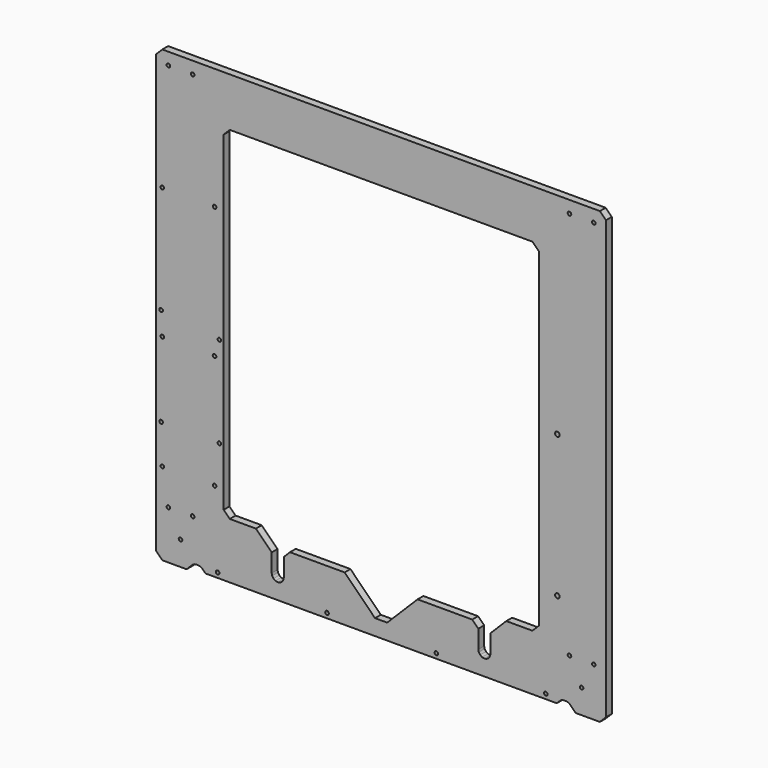
from build123d import *

# Parameters (mm, degrees)
F1_DEPTH = 6


with BuildPart() as f1:
    # F0 (on Front) → F1 (new body)
    with BuildSketch(Plane.XZ):
        Polygon((185, 180), (180, 185), (-180, 185), (-185, 180), (-185, -180), (-180, -185), (-160, -185), (-155.171573, -180.171573), (-153.873879, -179.304482), (-152.343146, -179), (-150.156854, -179), (-148.626121, -179.304482), (-147.328427, -180.171573), (-144.5, -183), (144.5, -183), (147.328427, -180.171573), (148.626121, -179.304482), (150.156854, -179), (152.343146, -179), (153.873879, -179.304482), (155.171573, -180.171573), (160, -185), (180, -185), (185, -180), align=None)
        Polygon((-163.614181, -164.425975), (-163.5, -165), (-163.614181, -165.574025), (-163.93934, -166.06066), (-164.425975, -166.385819), (-165, -166.5), (-165.574025, -166.385819), (-166.06066, -166.06066), (-166.385819, -165.574025), (-166.5, -165), (-166.385819, -164.425975), (-166.06066, -163.93934), (-165.574025, -163.614181), (-165, -163.5), (-164.425975, -163.614181), (-163.93934, -163.93934), align=None, mode=Mode.SUBTRACT)
        Polygon((-173.614181, -144.425975), (-173.5, -145), (-173.614181, -145.574025), (-173.93934, -146.06066), (-174.425975, -146.385819), (-175, -146.5), (-175.574025, -146.385819), (-176.06066, -146.06066), (-176.385819, -145.574025), (-176.5, -145), (-176.385819, -144.425975), (-176.06066, -143.93934), (-175.574025, -143.614181), (-175, -143.5), (-174.425975, -143.614181), (-173.93934, -143.93934), align=None, mode=Mode.SUBTRACT)
        Polygon((-153.614181, -144.425975), (-153.5, -145), (-153.614181, -145.574025), (-153.93934, -146.06066), (-154.425975, -146.385819), (-155, -146.5), (-155.574025, -146.385819), (-156.06066, -146.06066), (-156.385819, -145.574025), (-156.5, -145), (-156.385819, -144.425975), (-156.06066, -143.93934), (-155.574025, -143.614181), (-155, -143.5), (-154.425975, -143.614181), (-153.93934, -143.93934), align=None, mode=Mode.SUBTRACT)
        Polygon((-133.114181, -178.425975), (-133, -179), (-133.114181, -179.574025), (-133.43934, -180.06066), (-133.925975, -180.385819), (-134.5, -180.5), (-135.074025, -180.385819), (-135.56066, -180.06066), (-135.885819, -179.574025), (-136, -179), (-135.885819, -178.425975), (-135.56066, -177.93934), (-135.074025, -177.614181), (-134.5, -177.5), (-133.925975, -177.614181), (-133.43934, -177.93934), align=None, mode=Mode.SUBTRACT)
        Polygon((-178.614181, -116.425975), (-178.5, -117), (-178.614181, -117.574025), (-178.93934, -118.06066), (-179.425975, -118.385819), (-180, -118.5), (-180.574025, -118.385819), (-181.06066, -118.06066), (-181.385819, -117.574025), (-181.5, -117), (-181.385819, -116.425975), (-181.06066, -115.93934), (-180.574025, -115.614181), (-180, -115.5), (-179.425975, -115.614181), (-178.93934, -115.93934), align=None, mode=Mode.SUBTRACT)
        Polygon((-135.614181, -116.425975), (-135.5, -117), (-135.614181, -117.574025), (-135.93934, -118.06066), (-136.425975, -118.385819), (-137, -118.5), (-137.574025, -118.385819), (-138.06066, -118.06066), (-138.385819, -117.574025), (-138.5, -117), (-138.385819, -116.425975), (-138.06066, -115.93934), (-137.574025, -115.614181), (-137, -115.5), (-136.425975, -115.614181), (-135.93934, -115.93934), align=None, mode=Mode.SUBTRACT)
        Polygon((-43.114181, -178.425975), (-43, -179), (-43.114181, -179.574025), (-43.43934, -180.06066), (-43.925975, -180.385819), (-44.5, -180.5), (-45.074025, -180.385819), (-45.56066, -180.06066), (-45.885819, -179.574025), (-46, -179), (-45.885819, -178.425975), (-45.56066, -177.93934), (-45.074025, -177.614181), (-44.5, -177.5), (-43.925975, -177.614181), (-43.43934, -177.93934), align=None, mode=Mode.SUBTRACT)
        Polygon((-179.614181, -84.425975), (-179.5, -85), (-179.614181, -85.574025), (-179.93934, -86.06066), (-180.425975, -86.385819), (-181, -86.5), (-181.574025, -86.385819), (-182.06066, -86.06066), (-182.385819, -85.574025), (-182.5, -85), (-182.385819, -84.425975), (-182.06066, -83.93934), (-181.574025, -83.614181), (-181, -83.5), (-180.425975, -83.614181), (-179.93934, -83.93934), align=None, mode=Mode.SUBTRACT)
        Polygon((-131.614181, -84.425975), (-131.5, -85), (-131.614181, -85.574025), (-131.93934, -86.06066), (-132.425975, -86.385819), (-133, -86.5), (-133.574025, -86.385819), (-134.06066, -86.06066), (-134.385819, -85.574025), (-134.5, -85), (-134.385819, -84.425975), (-134.06066, -83.93934), (-133.574025, -83.614181), (-133, -83.5), (-132.425975, -83.614181), (-131.93934, -83.93934), align=None, mode=Mode.SUBTRACT)
        Polygon((-178.614181, -22.425975), (-178.5, -23), (-178.614181, -23.574025), (-178.93934, -24.06066), (-179.425975, -24.385819), (-180, -24.5), (-180.574025, -24.385819), (-181.06066, -24.06066), (-181.385819, -23.574025), (-181.5, -23), (-181.385819, -22.425975), (-181.06066, -21.93934), (-180.574025, -21.614181), (-180, -21.5), (-179.425975, -21.614181), (-178.93934, -21.93934), align=None, mode=Mode.SUBTRACT)
        Polygon((-179.614181, -3.425975), (-179.5, -4), (-179.614181, -4.574025), (-179.93934, -5.06066), (-180.425975, -5.385819), (-181, -5.5), (-181.574025, -5.385819), (-182.06066, -5.06066), (-182.385819, -4.574025), (-182.5, -4), (-182.385819, -3.425975), (-182.06066, -2.93934), (-181.574025, -2.614181), (-181, -2.5), (-180.425975, -2.614181), (-179.93934, -2.93934), align=None, mode=Mode.SUBTRACT)
        Polygon((-135.614181, -22.425975), (-135.5, -23), (-135.614181, -23.574025), (-135.93934, -24.06066), (-136.425975, -24.385819), (-137, -24.5), (-137.574025, -24.385819), (-138.06066, -24.06066), (-138.385819, -23.574025), (-138.5, -23), (-138.385819, -22.425975), (-138.06066, -21.93934), (-137.574025, -21.614181), (-137, -21.5), (-136.425975, -21.614181), (-135.93934, -21.93934), align=None, mode=Mode.SUBTRACT)
        Polygon((-131.614181, -9.425975), (-131.5, -10), (-131.614181, -10.574025), (-131.93934, -11.06066), (-132.425975, -11.385819), (-133, -11.5), (-133.574025, -11.385819), (-134.06066, -11.06066), (-134.385819, -10.574025), (-134.5, -10), (-134.385819, -9.425975), (-134.06066, -8.93934), (-133.574025, -8.614181), (-133, -8.5), (-132.425975, -8.614181), (-131.93934, -8.93934), align=None, mode=Mode.SUBTRACT)
        Polygon((46.885819, -178.425975), (47, -179), (46.885819, -179.574025), (46.56066, -180.06066), (46.074025, -180.385819), (45.5, -180.5), (44.925975, -180.385819), (44.43934, -180.06066), (44.114181, -179.574025), (44, -179), (44.114181, -178.425975), (44.43934, -177.93934), (44.925975, -177.614181), (45.5, -177.5), (46.074025, -177.614181), (46.56066, -177.93934), align=None, mode=Mode.SUBTRACT)
        Polygon((136.885819, -178.425975), (137, -179), (136.885819, -179.574025), (136.56066, -180.06066), (136.074025, -180.385819), (135.5, -180.5), (134.925975, -180.385819), (134.43934, -180.06066), (134.114181, -179.574025), (134, -179), (134.114181, -178.425975), (134.43934, -177.93934), (134.925975, -177.614181), (135.5, -177.5), (136.074025, -177.614181), (136.56066, -177.93934), align=None, mode=Mode.SUBTRACT)
        Polygon((166.385819, -164.425975), (166.5, -165), (166.385819, -165.574025), (166.06066, -166.06066), (165.574025, -166.385819), (165, -166.5), (164.425975, -166.385819), (163.93934, -166.06066), (163.614181, -165.574025), (163.5, -165), (163.614181, -164.425975), (163.93934, -163.93934), (164.425975, -163.614181), (165, -163.5), (165.574025, -163.614181), (166.06066, -163.93934), align=None, mode=Mode.SUBTRACT)
        Polygon((156.385819, -144.425975), (156.5, -145), (156.385819, -145.574025), (156.06066, -146.06066), (155.574025, -146.385819), (155, -146.5), (154.425975, -146.385819), (153.93934, -146.06066), (153.614181, -145.574025), (153.5, -145), (153.614181, -144.425975), (153.93934, -143.93934), (154.425975, -143.614181), (155, -143.5), (155.574025, -143.614181), (156.06066, -143.93934), align=None, mode=Mode.SUBTRACT)
        Polygon((176.385819, -144.425975), (176.5, -145), (176.385819, -145.574025), (176.06066, -146.06066), (175.574025, -146.385819), (175, -146.5), (174.425975, -146.385819), (173.93934, -146.06066), (173.614181, -145.574025), (173.5, -145), (173.614181, -144.425975), (173.93934, -143.93934), (174.425975, -143.614181), (175, -143.5), (175.574025, -143.614181), (176.06066, -143.93934), align=None, mode=Mode.SUBTRACT)
        Polygon((146.755371, -104.272901), (146.9, -105), (146.755371, -105.727099), (146.343503, -106.343503), (145.727099, -106.755371), (145, -106.9), (144.272901, -106.755371), (143.656497, -106.343503), (143.244629, -105.727099), (143.1, -105), (143.244629, -104.272901), (143.656497, -103.656497), (144.272901, -103.244629), (145, -103.1), (145.727099, -103.244629), (146.343503, -103.656497), align=None, mode=Mode.SUBTRACT)
        Polygon((130, 139.3), (130, -131.5), (124.5, -137), (103, -137), (90, -150), (90, -165), (89.619398, -166.913417), (88.535534, -168.535534), (86.913417, -169.619398), (85, -170), (83.086583, -169.619398), (81.464466, -168.535534), (80.380602, -166.913417), (80, -165), (80, -150), (75, -145), (30, -145), (5, -170), (-5, -170), (-30, -145), (-75, -145), (-80, -150), (-80, -165), (-80.380602, -166.913417), (-81.464466, -168.535534), (-83.086583, -169.619398), (-85, -170), (-86.913417, -169.619398), (-88.535534, -168.535534), (-89.619398, -166.913417), (-90, -165), (-90, -150), (-103, -137), (-124.5, -137), (-129.5, -132), (-129.5, 139.8), (-124.5, 144.8), (124.5, 144.8), align=None, mode=Mode.SUBTRACT)
        Polygon((-178.614181, 85.574025), (-178.5, 85), (-178.614181, 84.425975), (-178.93934, 83.93934), (-179.425975, 83.614181), (-180, 83.5), (-180.574025, 83.614181), (-181.06066, 83.93934), (-181.385819, 84.425975), (-181.5, 85), (-181.385819, 85.574025), (-181.06066, 86.06066), (-180.574025, 86.385819), (-180, 86.5), (-179.425975, 86.385819), (-178.93934, 86.06066), align=None, mode=Mode.SUBTRACT)
        Polygon((-135.614181, 85.574025), (-135.5, 85), (-135.614181, 84.425975), (-135.93934, 83.93934), (-136.425975, 83.614181), (-137, 83.5), (-137.574025, 83.614181), (-138.06066, 83.93934), (-138.385819, 84.425975), (-138.5, 85), (-138.385819, 85.574025), (-138.06066, 86.06066), (-137.574025, 86.385819), (-137, 86.5), (-136.425975, 86.385819), (-135.93934, 86.06066), align=None, mode=Mode.SUBTRACT)
        Polygon((-173.614181, 175.574025), (-173.5, 175), (-173.614181, 174.425975), (-173.93934, 173.93934), (-174.425975, 173.614181), (-175, 173.5), (-175.574025, 173.614181), (-176.06066, 173.93934), (-176.385819, 174.425975), (-176.5, 175), (-176.385819, 175.574025), (-176.06066, 176.06066), (-175.574025, 176.385819), (-175, 176.5), (-174.425975, 176.385819), (-173.93934, 176.06066), align=None, mode=Mode.SUBTRACT)
        Polygon((-153.614181, 175.574025), (-153.5, 175), (-153.614181, 174.425975), (-153.93934, 173.93934), (-154.425975, 173.614181), (-155, 173.5), (-155.574025, 173.614181), (-156.06066, 173.93934), (-156.385819, 174.425975), (-156.5, 175), (-156.385819, 175.574025), (-156.06066, 176.06066), (-155.574025, 176.385819), (-155, 176.5), (-154.425975, 176.385819), (-153.93934, 176.06066), align=None, mode=Mode.SUBTRACT)
        Polygon((146.755371, 12.727099), (146.9, 12), (146.755371, 11.272901), (146.343503, 10.656497), (145.727099, 10.244629), (145, 10.1), (144.272901, 10.244629), (143.656497, 10.656497), (143.244629, 11.272901), (143.1, 12), (143.244629, 12.727099), (143.656497, 13.343503), (144.272901, 13.755371), (145, 13.9), (145.727099, 13.755371), (146.343503, 13.343503), align=None, mode=Mode.SUBTRACT)
        Polygon((156.385819, 175.574025), (156.5, 175), (156.385819, 174.425975), (156.06066, 173.93934), (155.574025, 173.614181), (155, 173.5), (154.425975, 173.614181), (153.93934, 173.93934), (153.614181, 174.425975), (153.5, 175), (153.614181, 175.574025), (153.93934, 176.06066), (154.425975, 176.385819), (155, 176.5), (155.574025, 176.385819), (156.06066, 176.06066), align=None, mode=Mode.SUBTRACT)
        Polygon((176.385819, 175.574025), (176.5, 175), (176.385819, 174.425975), (176.06066, 173.93934), (175.574025, 173.614181), (175, 173.5), (174.425975, 173.614181), (173.93934, 173.93934), (173.614181, 174.425975), (173.5, 175), (173.614181, 175.574025), (173.93934, 176.06066), (174.425975, 176.385819), (175, 176.5), (175.574025, 176.385819), (176.06066, 176.06066), align=None, mode=Mode.SUBTRACT)
    extrude(amount=F1_DEPTH)


solid = f1.part
